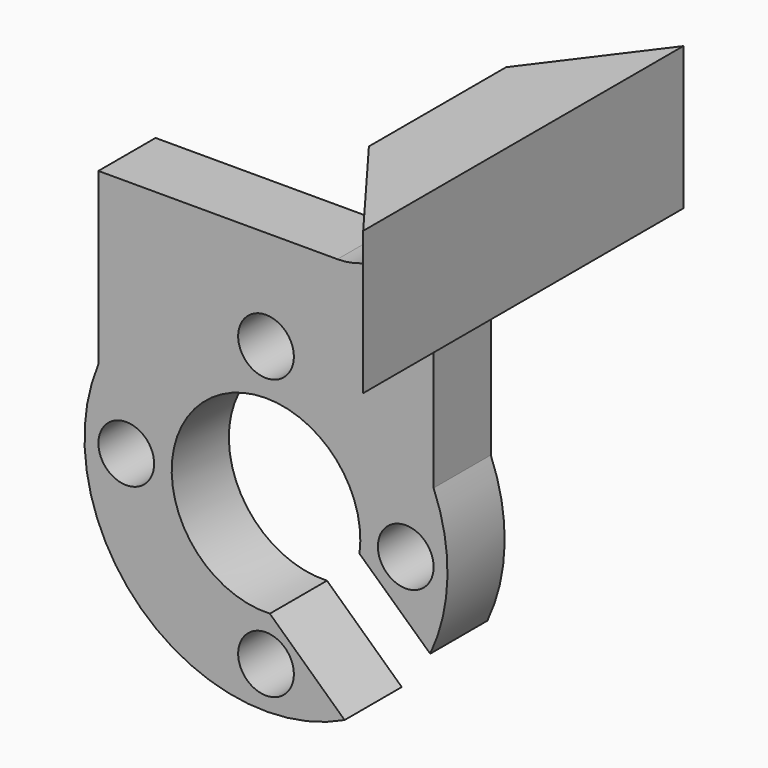
from build123d import *

# Parameters (mm, degrees)
SKETCH_R     = 1.95
PAD_DEPTH    = 5
PAD001_DEPTH = 10
FILLET_R     = 1
FILLET001_R  = 5


with BuildPart() as part:
    # Sketch → Pad (new body)
    with BuildSketch(Plane.XZ):
        with BuildLine():
            ThreePointArc((6.543416, -0.862387), (-4.450889, 4.873355), (0.267125, -6.594592))
            Line((0.267125, -6.594592), (5.49934, -11.447587))
            ThreePointArc((-11.729, 4.870376), (-8.733335, -9.220567), (5.49934, -11.447587))
            Line((-11.729, 16.779), (-11.729, 4.870376))
            Line((11.729, 16.779), (-11.729, 16.779))
            Line((11.729, 4.870376), (11.729, 16.779))
            ThreePointArc((11.487647, -5.41516), (12.696505, -0.297927), (11.729, 4.870376))
            Line((6.543416, -0.862387), (11.487647, -5.41516))
        make_face()
        with Locations((0, 9.779)):
            Circle(SKETCH_R, mode=Mode.SUBTRACT)
        with Locations((-9.779, 0)):
            Circle(SKETCH_R, mode=Mode.SUBTRACT)
        with Locations((9.779, 0)):
            Circle(SKETCH_R, mode=Mode.SUBTRACT)
        with Locations((0, -9.779)):
            Circle(SKETCH_R, mode=Mode.SUBTRACT)
    extrude(amount=PAD_DEPTH)

    # Sketch002 (on Face6 of Pad) → Pad001 (join)
    with BuildSketch(Plane(origin=(0, 0, 16.779), x_dir=(-1, 0, 0), z_dir=(0, 0, 1))):
        Polygon((-10, 8.5), (-10, -3.5), (-16, -11.5), (-16, -3.5), (-16, 8.5), (-16, 16.5), align=None)
    extrude(amount=PAD001_DEPTH)

    # Fillet
    fillet_edges = [part.edges().sort_by_distance(p)[0] for p in [
        (11.729, -2.5, 16.779),
    ]]
    fillet(fillet_edges, radius=FILLET_R)

    # Fillet001
    fillet001_edges = [part.edges().sort_by_distance(p)[0] for p in [
        (10, -2.5, 16.779),
    ]]
    fillet(fillet001_edges, radius=FILLET001_R)


solid = part.part
